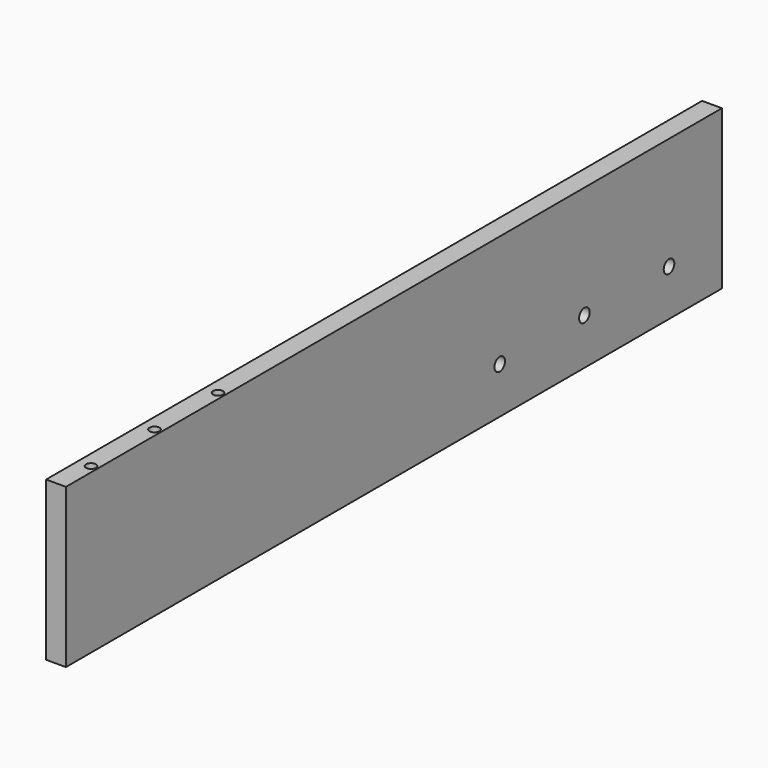
from build123d import *

# Parameters (mm, degrees)
F0_W     = 787.4
F0_H     = 152.4
F1_DEPTH = 19.05
F4_D     = 12.7
F5_D     = 9.525
F6_W     = 423.4667551786
F6_H     = 22.225
F7_DEPTH = 6.35


with BuildPart() as f1:
    # F0 (on Right) → F1 (new body)
    with BuildSketch(Plane.YZ):
        with Locations((29.7667551786, 54.1366326568)):
            Rectangle(F0_W, F0_H)
    extrude(amount=F1_DEPTH)

    # F4 (through all)
    with Locations(Plane.YZ.offset(19.05)):
        with Locations((156.7667551786, 22.3866326568), (258.3667551786, 22.3866326568), (359.9667551786, 22.3866326568)):
            Hole(F4_D / 2)

    # F5 (through all)
    with Locations(Plane.XY.offset(130.3366326568)):
        with Locations((12.7, -173.4332448214), (12.7, -249.6332448214), (12.7, -325.8332448214)):
            Hole(F5_D / 2)

    # F6 (on face) → F7 (join, symmetric)
    with BuildSketch(Plane(origin=(0, 0, 0), x_dir=(0, -1, 0), z_dir=(-1, 0, 0))):
        with Locations((-211.7333775893, 96.9991326568)):
            Rectangle(F6_W, F6_H)
    extrude(amount=F7_DEPTH, both=True)


solid = f1.part
